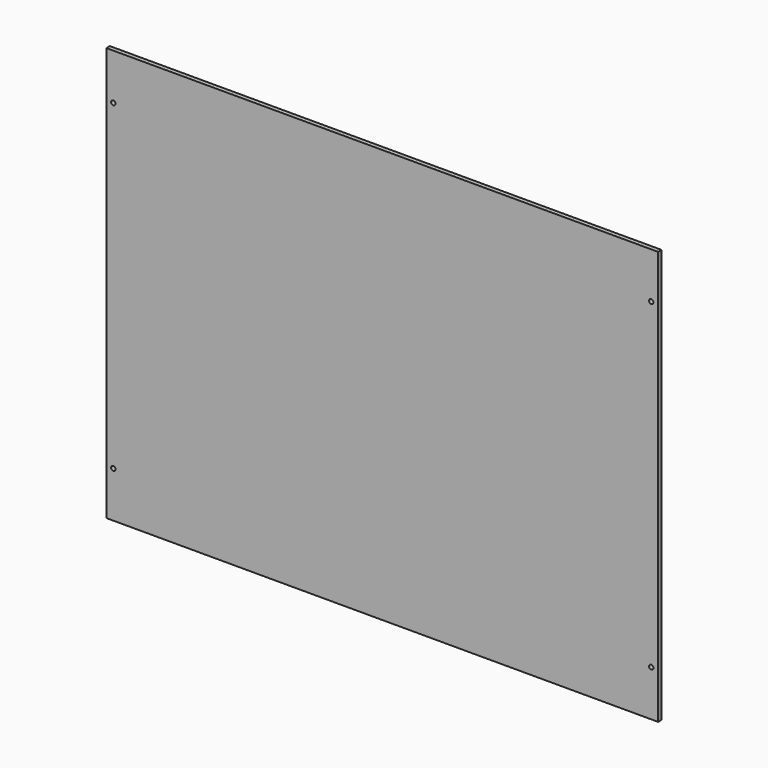
from build123d import *

# Parameters (mm, degrees)
F0_W     = 1219.2
F0_H     = 914.4
F1_DEPTH = 9.525
F2_R     = 4.7625
F3_DEPTH = 9.526


with BuildPart() as f1:
    # F0 (on Front) → F1 (new body)
    with BuildSketch(Plane.XZ):
        with Locations((609.6, 457.2)):
            Rectangle(F0_W, F0_H)
    extrude(amount=F1_DEPTH)

    # F2 (on face) → F3 (cut, through all)
    with BuildSketch(Plane.XZ.offset(9.525)):
        with Locations((15.24, 812.8)):
            Circle(F2_R)
        with Locations((15.24, 101.6)):
            Circle(F2_R)
        with Locations((1203.96, 101.6)):
            Circle(F2_R)
        with Locations((1203.96, 812.8)):
            Circle(F2_R)
    extrude(amount=-F3_DEPTH, mode=Mode.SUBTRACT)


solid = f1.part
